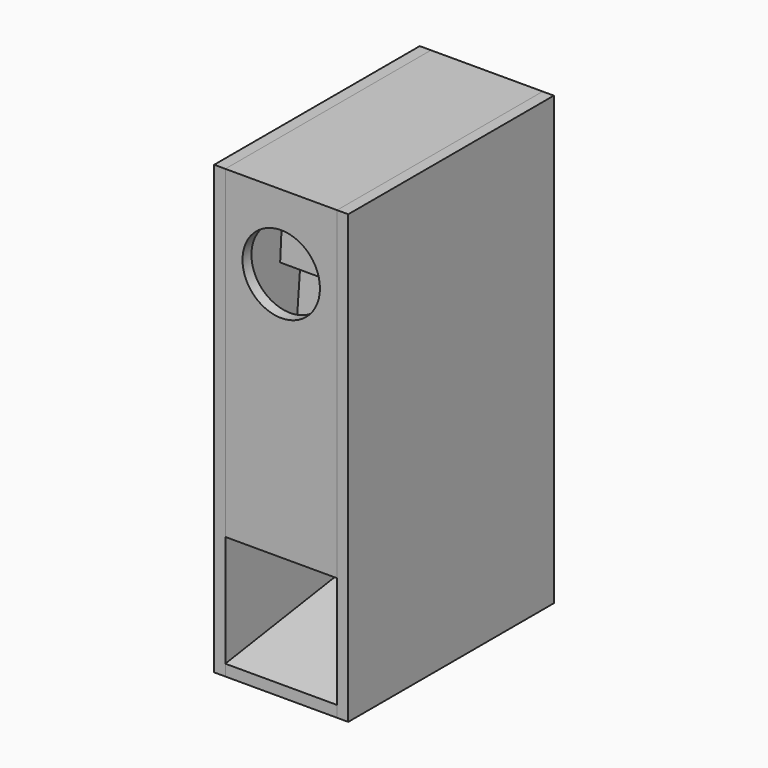
from build123d import *

# Parameters (mm, degrees)
F1_DEPTH    = 75
F2_R        = 52
F3_DEPTH    = 15
F4_W        = 345
F4_H        = 600
F5_DEPTH    = 15
F7_R        = 15
F8_DEPTH    = 15
F7_R_2      = 17
F9_DEPTH    = 7.5
F9_FACE_R   = 17
F9_FACE_R_2 = 15
F10_DEPTH   = 107.5


with BuildPart() as f1:
    # F0 (on Right) → F1 (new body, symmetric)
    with BuildSketch(Plane.YZ):
        Polygon((0, 100), (0, -335), (226, -335), (262, 21), (246.9235, 21), (212.440354, -320), (118, -320), (152, 61), (136.940392, 61), (102.940392, -320), (15, -320), (15, 85), (99.972889, 85), (91.972889, -48), (107, -48), (115, 85), (176.977621, 85), (156.977621, -281), (172, -281), (192, 85), (330, 85), (330, -435), (0, -484.829957), (0, -500), (330, -450.170043), (330, -500), (345, -500), (345, 100), align=None)
    extrude(amount=F1_DEPTH, both=True)

    # F2 (on face) → F3 (cut, through all)
    with BuildSketch(Plane.XZ):
        Circle(F2_R)
    extrude(amount=-F3_DEPTH, mode=Mode.SUBTRACT)

    # F7 (on face) → F8 (cut, through all)
    with BuildSketch(Plane.XY.offset(-320)):
        with Locations((0, 59)):
            Circle(F7_R)
    extrude(amount=-F8_DEPTH, mode=Mode.SUBTRACT)

    # F7 (on face) → F9 (cut)
    with BuildSketch(Plane.XY.offset(-320)):
        with Locations((0, 59)):
            Circle(F7_R_2)
        with Locations((0, 59)):
            Circle(F7_R, mode=Mode.SUBTRACT)
    extrude(amount=-F9_DEPTH, mode=Mode.SUBTRACT)


with BuildPart() as f5:
    # F4 (on face) → F5 (new body)
    with BuildSketch(Plane.YZ.offset(75)):
        with Locations((172.5, -200)):
            Rectangle(F4_W, F4_H)
    extrude(amount=F5_DEPTH)


with BuildPart() as f6_1:
    # F6: instance of F5
    add(f5.part.mirror(Plane.YZ))


with BuildPart() as f10:
    # F9_face (on face) → F10 (new body)
    with BuildSketch(Plane(origin=(0, 59, -327.5), x_dir=(1, 0, 0), z_dir=(0, 0, 1))):
        Circle(F9_FACE_R)
        Circle(F9_FACE_R_2, mode=Mode.SUBTRACT)
    extrude(amount=F10_DEPTH)


solid = Compound([f1.part, f5.part, f6_1.part, f10.part])
